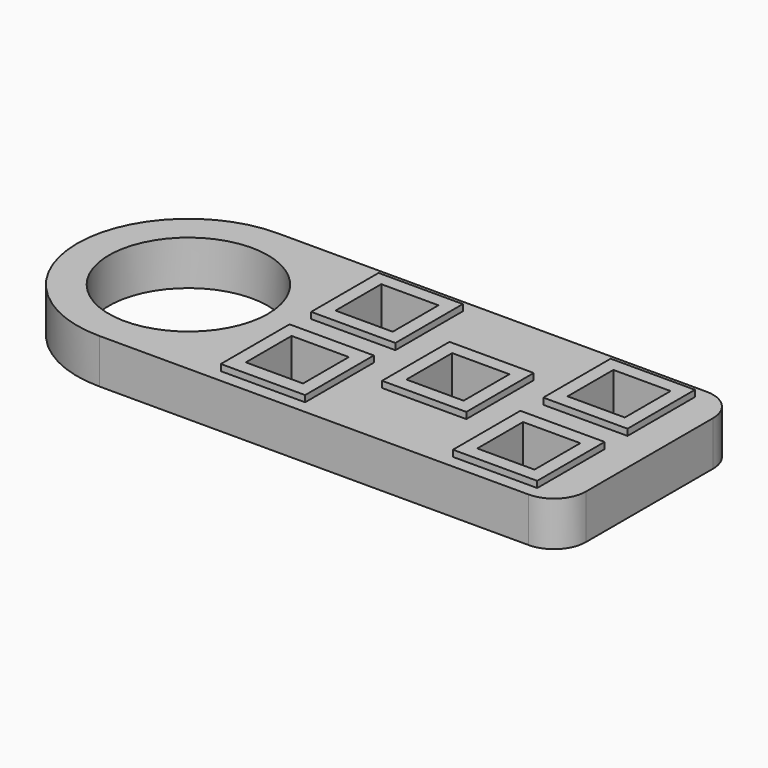
from build123d import *

# Parameters (mm, degrees)
F0_R     = 12.5
F1_DEPTH = 7
F2_W     = 13.25
F2_H     = 13.25
F2_W_2   = 9
F2_H_2   = 9
F2_H_3   = 13.5
F3_DEPTH = 1
F4_DEPTH = 5


with BuildPart() as f1:
    # F0 (on Top) → F1 (new body)
    with BuildSketch(Plane.XY):
        with BuildLine():
            ThreePointArc((0, 17.5), (5.125631, 5.125631), (17.5, 0))
            Line((17.5, 0), (85, 0))
            ThreePointArc((85, 0), (88.535534, 1.464466), (90, 5))
            Line((90, 5), (90, 30))
            ThreePointArc((90, 30), (88.535534, 33.535534), (85, 35))
            Line((85, 35), (17.5, 35))
            ThreePointArc((17.5, 35), (5.125631, 29.874369), (0, 17.5))
        make_face()
        with Locations((17.5, 17.5)):
            Circle(F0_R, mode=Mode.SUBTRACT)
    extrude(amount=F1_DEPTH)

    # F2 (on face) → F3 (join)
    with BuildSketch(Plane.XY.offset(7)):
        with Locations((41.625, 26.375)):
            Rectangle(F2_W, F2_H)
        with Locations((41.625, 26.375)):
            Rectangle(F2_W_2, F2_H_2, mode=Mode.SUBTRACT)
        with Locations((41.625, 8.75)):
            Rectangle(F2_W, F2_H_3)
        with Locations((41.625, 8.75)):
            Rectangle(F2_W_2, F2_H_2, mode=Mode.SUBTRACT)
        with Locations((59.875, 17.5)):
            Rectangle(F2_W, F2_H)
        with Locations((59.875, 17.5)):
            Rectangle(F2_W_2, F2_H_2, mode=Mode.SUBTRACT)
        with Locations((78.125, 8.625)):
            Rectangle(F2_W, F2_H)
        with Locations((78.125, 8.625)):
            Rectangle(F2_W_2, F2_H_2, mode=Mode.SUBTRACT)
        with Locations((78.125, 26.375)):
            Rectangle(F2_W, F2_H)
        with Locations((78.125, 26.375)):
            Rectangle(F2_W_2, F2_H_2, mode=Mode.SUBTRACT)
    extrude(amount=F3_DEPTH)

    # F2 (on face) → F4 (cut)
    with BuildSketch(Plane.XY.offset(7)):
        with Locations((41.625, 26.375)):
            Rectangle(F2_W_2, F2_H_2)
        with Locations((41.625, 8.75)):
            Rectangle(F2_W_2, F2_H_2)
        with Locations((59.875, 17.5)):
            Rectangle(F2_W_2, F2_H_2)
        with Locations((78.125, 26.375)):
            Rectangle(F2_W_2, F2_H_2)
        with Locations((78.125, 8.625)):
            Rectangle(F2_W_2, F2_H_2)
    extrude(amount=-F4_DEPTH, mode=Mode.SUBTRACT)


solid = f1.part
